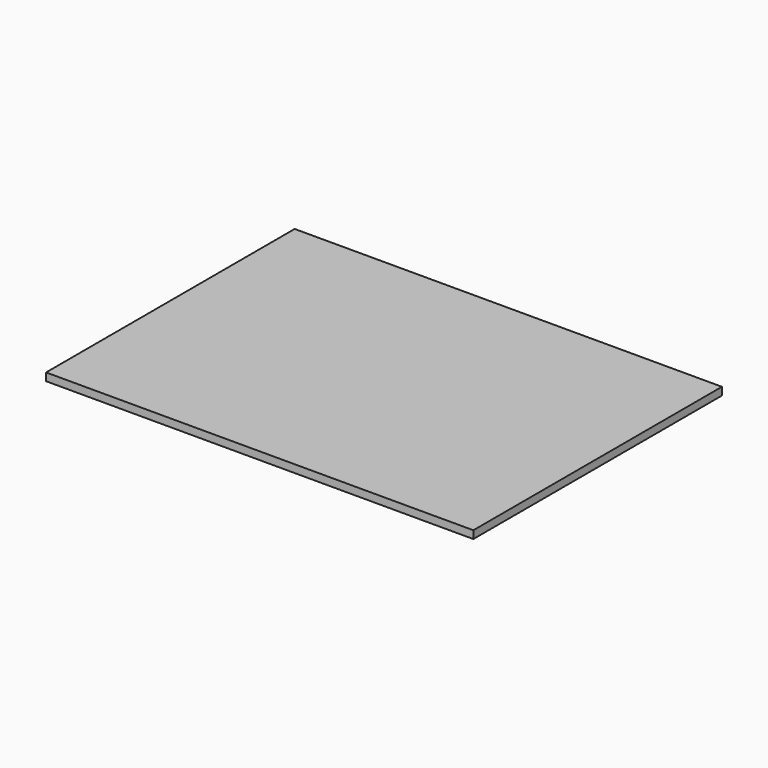
from build123d import *

# Parameters (mm, degrees)
SKETCH_W  = 110
SKETCH_H  = 80
PAD_DEPTH = 2


with BuildPart() as part:
    # Sketch → Pad (new body)
    with BuildSketch(Plane.XY):
        Rectangle(SKETCH_W, SKETCH_H)
    extrude(amount=PAD_DEPTH)


solid = part.part
